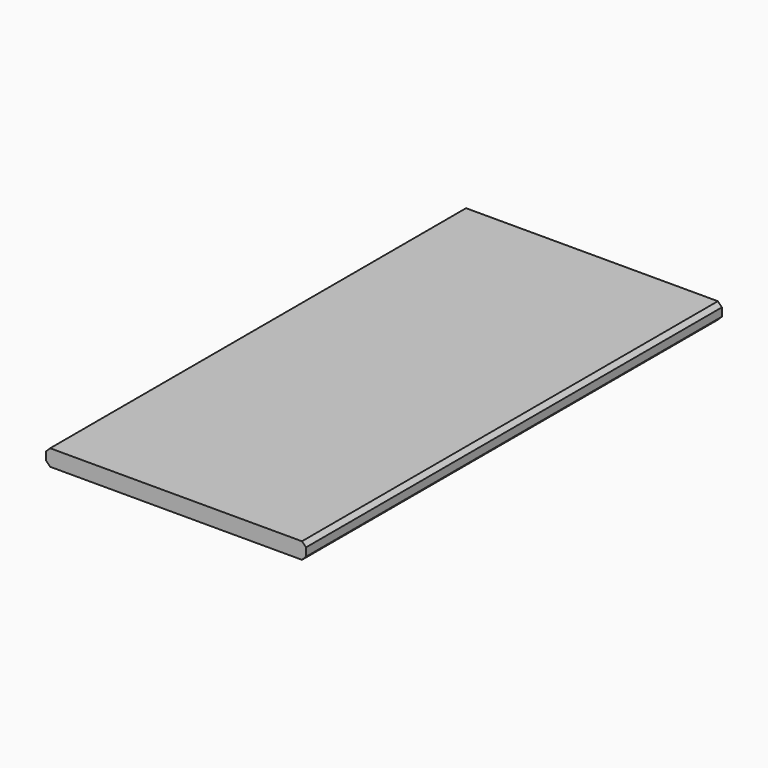
from build123d import *

# Parameters (mm, degrees)
F0_W     = 609.6
F0_H     = 1219.2
F1_DEPTH = 19.177
F2_SIZE  = 9.525


with BuildPart() as f1:
    # F0 (on Top) → F1 (new body, symmetric)
    with BuildSketch(Plane.XY):
        Rectangle(F0_W, F0_H)
    extrude(amount=F1_DEPTH, both=True)

    # F2
    f2_edges = [f1.edges().sort_by_distance(p)[0] for p in [
        (-304.8, 0, 19.177),
        (-304.8, 0, -19.177),
        (304.8, 0, 19.177),
        (304.8, 0, -19.177),
    ]]
    chamfer(f2_edges, length=F2_SIZE)


solid = f1.part
